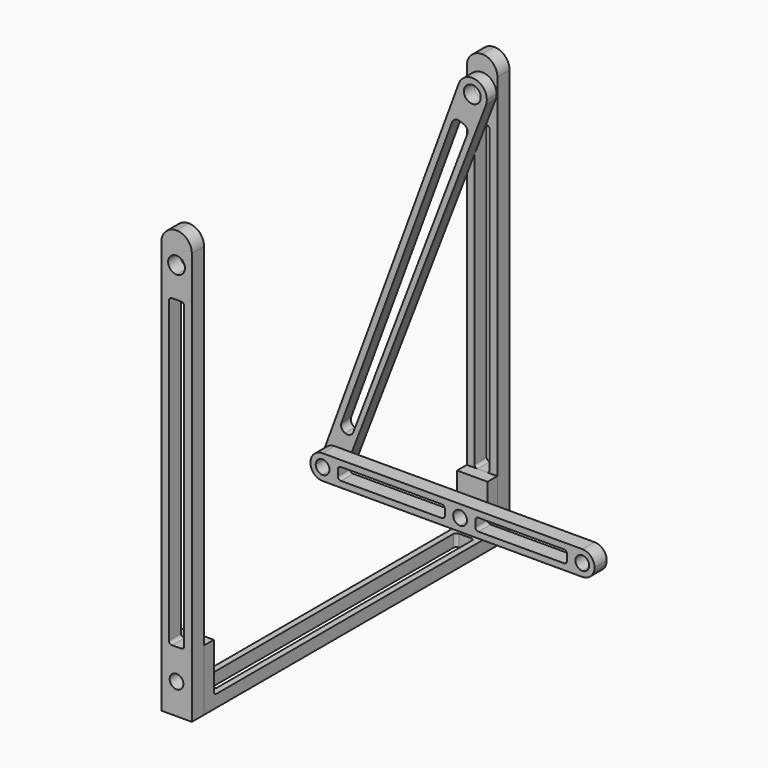
from build123d import *

# Parameters (mm, degrees)
F1_DEPTH  = 5
F6_DEPTH  = 10
F8_DEPTH  = 25
F9_R      = 2.25
F10_DEPTH = 130.001
F12_DEPTH = 5
F14_DEPTH = 25
F16_DEPTH = 5
F17_R     = 2.25
F17_R_2   = 2.75
F18_DEPTH = 4
F20_DEPTH = 25


with BuildPart() as f1:
    # F0 (on Front) → F1 (new body)
    with BuildSketch(Plane.XZ):
        with BuildLine():
            Line((7.5, 70), (10, 70))
            Line((10, 70), (10, 135))
            ThreePointArc((10, 135), (8.5355339059, 138.5355339059), (5, 140))
            Line((5, 140), (5, 132.75))
            ThreePointArc((5, 132.75), (6.9445436483, 131.9445436483), (7.75, 130))
            ThreePointArc((7.75, 130), (6.9445436483, 128.0554563517), (5, 127.25))
            Line((5, 127.25), (5, 120))
            Line((5, 120), (6.5, 120))
            ThreePointArc((6.5, 120), (7.2071067812, 119.7071067812), (7.5, 119))
            Line((7.5, 119), (7.5, 70))
        make_face()
        with BuildLine():
            Line((0, 135), (0, 70))
            Line((0, 70), (2.5, 70))
            Line((2.5, 70), (2.5, 119))
            ThreePointArc((2.5, 119), (2.7928932188, 119.7071067812), (3.5, 120))
            Line((3.5, 120), (5, 120))
            Line((5, 120), (5, 127.25))
            ThreePointArc((5, 127.25), (2.25, 130), (5, 132.75))
            Line((5, 132.75), (5, 140))
            ThreePointArc((5, 140), (1.4644660941, 138.5355339059), (0, 135))
        make_face()
        with BuildLine():
            Line((0, 70), (0, 0))
            Line((0, 0), (10, 0))
            Line((10, 0), (10, 70))
            Line((10, 70), (7.5, 70))
            Line((7.5, 70), (7.5, 21))
            ThreePointArc((7.5, 21), (7.2071067812, 20.2928932188), (6.5, 20))
            Line((6.5, 20), (5, 20))
            Line((5, 20), (3.5, 20))
            ThreePointArc((3.5, 20), (2.7928932188, 20.2928932188), (2.5, 21))
            Line((2.5, 21), (2.5, 70))
            Line((2.5, 70), (0, 70))
        make_face()
        with BuildLine():
            ThreePointArc((7.25, 10), (3.4090097423, 8.4090097423), (5, 12.25))
            ThreePointArc((5, 12.25), (6.5909902577, 11.5909902577), (7.25, 10))
        make_face(mode=Mode.SUBTRACT)
    extrude(amount=F1_DEPTH)


with BuildPart() as f4_1:
    # F4: instance of F1
    add(f1.part.mirror(Plane(origin=(0, 60, 0), x_dir=(-1, 0, 0), z_dir=(0, 1, 0))))


with BuildPart() as f6:
    # F5 (on Right) → F6 (new body)
    with BuildSketch(Plane.YZ):
        with BuildLine():
            Line((0, 20), (0, 0))
            Line((0, 0), (120, 0))
            Line((120, 0), (120, 20))
            Line((120, 20), (116, 20))
            Line((116, 20), (116, 15))
            Line((116, 15), (116, 5))
            ThreePointArc((116, 5), (115.7071067812, 4.2928932188), (115, 4))
            Line((115, 4), (5, 4))
            ThreePointArc((5, 4), (4.2928932188, 4.2928932188), (4, 5))
            Line((4, 5), (4, 15))
            Line((4, 15), (4, 20))
            Line((4, 20), (0, 20))
        make_face()
    extrude(amount=F6_DEPTH)

    # F7 (on face) → F8 (cut)
    with BuildSketch(Plane.XY.offset(4)):
        with BuildLine():
            ThreePointArc((3, 113), (2.2928932188, 112.7071067812), (2, 112))
            Line((2, 112), (2, 8))
            ThreePointArc((2, 8), (2.2928932188, 7.2928932188), (3, 7))
            Line((3, 7), (7, 7))
            ThreePointArc((7, 7), (7.7071067812, 7.2928932188), (8, 8))
            Line((8, 8), (8, 112))
            ThreePointArc((8, 112), (7.7071067812, 112.7071067812), (7, 113))
            Line((7, 113), (3, 113))
        make_face()
    extrude(amount=-F8_DEPTH, mode=Mode.SUBTRACT)

    # F9 (on face) → F10 (cut, through all)
    with BuildSketch(Plane.XZ.offset(5)):
        with Locations((5, 10)):
            Circle(F9_R)
    extrude(amount=-F10_DEPTH, mode=Mode.SUBTRACT)


with BuildPart() as f12:
    # F11 (on face) → F12 (new body)
    with BuildSketch(Plane.XZ.offset(-116)):
        with BuildLine():
            Line((5, 12.25), (5, 14))
            ThreePointArc((5, 14), (1, 10), (5, 6))
            Line((5, 6), (5, 7.75))
            ThreePointArc((5, 7.75), (2.75, 10), (5, 12.25))
        make_face()
        with BuildLine():
            ThreePointArc((5, 6), (7.8284271247, 7.1715728753), (9, 10))
            ThreePointArc((9, 10), (7.8284271247, 12.8284271247), (5, 14))
            Line((5, 14), (5, 12.25))
            ThreePointArc((5, 12.25), (6.5909902577, 11.5909902577), (7.25, 10))
            ThreePointArc((7.25, 10), (6.5909902577, 8.4090097423), (5, 7.75))
            Line((5, 7.75), (5, 6))
        make_face()
        with BuildLine():
            ThreePointArc((5, 6), (1, 10), (5, 14))
            Line((5, 14), (0, 14))
            Line((0, 14), (0, 6))
            Line((0, 6), (5, 6))
        make_face()
        with BuildLine():
            Line((0, 6), (0, 14))
            Line((0, 14), (-40, 14))
            ThreePointArc((-40, 14), (-37.1715728753, 12.8284271247), (-36, 10))
            ThreePointArc((-36, 10), (-37.1715728753, 7.1715728753), (-40, 6))
            Line((-40, 6), (0, 6))
        make_face()
        with BuildLine():
            Line((-40, 7.75), (-40, 6))
            ThreePointArc((-40, 6), (-37.1715728753, 7.1715728753), (-36, 10))
            Line((-36, 10), (-37.75, 10))
            ThreePointArc((-37.75, 10), (-38.4090097423, 8.4090097423), (-40, 7.75))
        make_face()
        with BuildLine():
            ThreePointArc((-44, 10), (-42.8284271247, 7.1715728753), (-40, 6))
            Line((-40, 6), (-40, 7.75))
            ThreePointArc((-40, 7.75), (-41.5909902577, 8.4090097423), (-42.25, 10))
            Line((-42.25, 10), (-44, 10))
        make_face()
        with BuildLine():
            ThreePointArc((-36, 10), (-37.1715728753, 12.8284271247), (-40, 14))
            ThreePointArc((-40, 14), (-42.8284271247, 12.8284271247), (-44, 10))
            Line((-44, 10), (-42.25, 10))
            ThreePointArc((-42.25, 10), (-40, 12.25), (-37.75, 10))
            Line((-37.75, 10), (-36, 10))
        make_face()
    extrude(amount=F12_DEPTH)

    # F13 (on face) → F14 (cut)
    with BuildSketch(Plane.XZ.offset(-111)):
        with BuildLine():
            Line((-35, 10), (0, 10))
            Line((0, 10), (0, 11))
            ThreePointArc((0, 11), (-0.2928932188, 11.7071067812), (-1, 12))
            Line((-1, 12), (-34, 12))
            ThreePointArc((-34, 12), (-34.7071067812, 11.7071067812), (-35, 11))
            Line((-35, 11), (-35, 10))
        make_face()
        with BuildLine():
            Line((0, 9), (0, 10))
            Line((0, 10), (-35, 10))
            Line((-35, 10), (-35, 9))
            ThreePointArc((-35, 9), (-34.7071067812, 8.2928932188), (-34, 8))
            Line((-34, 8), (-1, 8))
            ThreePointArc((-1, 8), (-0.2928932188, 8.2928932188), (0, 9))
        make_face()
    extrude(amount=-F14_DEPTH, mode=Mode.SUBTRACT)


with BuildPart() as f15_1:
    # F15: copy of F12
    add(f12.part)

    # F11 (on face) → F16 (join)
    with BuildSketch(Plane.XZ.offset(-116)):
        with BuildLine():
            Line((45, 14), (10, 14))
            Line((10, 14), (10, 11))
            ThreePointArc((10, 11), (10.2928932188, 11.7071067812), (11, 12))
            Line((11, 12), (39, 12))
            ThreePointArc((39, 12), (39.7071067812, 11.7071067812), (40, 11))
            Line((40, 11), (40, 9))
            ThreePointArc((40, 9), (39.7071067812, 8.2928932188), (39, 8))
            Line((39, 8), (11, 8))
            ThreePointArc((11, 8), (10.2928932188, 8.2928932188), (10, 9))
            Line((10, 9), (10, 6))
            Line((10, 6), (45, 6))
            ThreePointArc((45, 6), (41, 10), (45, 14))
        make_face()
        with BuildLine():
            ThreePointArc((5, 14), (7.8284271247, 12.8284271247), (9, 10))
            ThreePointArc((9, 10), (7.8284271247, 7.1715728753), (5, 6))
            Line((5, 6), (10, 6))
            Line((10, 6), (10, 9))
            Line((10, 9), (10, 11))
            Line((10, 11), (10, 14))
            Line((10, 14), (5, 14))
        make_face()
        with BuildLine():
            Line((45, 12.25), (45, 14))
            ThreePointArc((45, 14), (41, 10), (45, 6))
            Line((45, 6), (45, 7.75))
            ThreePointArc((45, 7.75), (42.75, 10), (45, 12.25))
        make_face()
        with BuildLine():
            ThreePointArc((49, 10), (47.8284271247, 12.8284271247), (45, 14))
            Line((45, 14), (45, 12.25))
            ThreePointArc((45, 12.25), (46.5909902577, 11.5909902577), (47.25, 10))
            ThreePointArc((47.25, 10), (46.5909902577, 8.4090097423), (45, 7.75))
            Line((45, 7.75), (45, 6))
            ThreePointArc((45, 6), (47.8284271247, 7.1715728753), (49, 10))
        make_face()
    extrude(amount=F16_DEPTH)


with BuildPart() as f18:
    # F17 (on face) → F18 (new body)
    with BuildSketch(Plane.XZ.offset(-116)):
        with BuildLine():
            ThreePointArc((-43.4767751946, 11.9778863077), (-42.0110264505, 13.4577120492), (-40, 14))
            Line((-40, 14), (-34.4637237396, 14))
            Line((-34.4637237396, 14), (9.4342027867, 128.2969598812))
            ThreePointArc((9.4342027867, 128.2969598812), (3.3284893263, 125.5538160106), (0.5420589951, 131.639896947))
            Line((0.5420589951, 131.639896947), (-43.4767751946, 11.9778863077))
        make_face()
        with BuildLine():
            ThreePointArc((-40, 6), (-37.1715728753, 7.1715728753), (-36, 10))
            ThreePointArc((-36, 10), (-37.1715728753, 12.8284271247), (-40, 14))
            ThreePointArc((-40, 14), (-42.0110264505, 13.4577120492), (-43.4767751946, 11.9778863077))
            ThreePointArc((-43.4767751946, 11.9778863077), (-43.4577120492, 7.9889735495), (-40, 6))
        make_face()
        with Locations((-40, 10)):
            Circle(F17_R, mode=Mode.SUBTRACT)
        with BuildLine():
            ThreePointArc((-40, 14), (-37.1715728753, 12.8284271247), (-36, 10))
            Line((-36, 10), (-34.4637237396, 14))
            Line((-34.4637237396, 14), (-40, 14))
        make_face()
        with BuildLine():
            ThreePointArc((0.5420589951, 131.639896947), (3.3284893263, 125.5538160106), (9.4342027867, 128.2969598812))
            ThreePointArc((9.4342027867, 128.2969598812), (9.6703834552, 129.1339639837), (9.75, 130))
            ThreePointArc((9.75, 130), (5.8328505949, 134.6764152817), (0.5420589951, 131.639896947))
        make_face()
        with Locations((5, 130)):
            Circle(F17_R_2, mode=Mode.SUBTRACT)
    extrude(amount=-F18_DEPTH)

    # F19 (on face) → F20 (cut)
    with BuildSketch(Plane.XZ.offset(-116)):
        with BuildLine():
            ThreePointArc((0.9337998582, 120.9826029376), (-0.6066160667, 120.9337412786), (-1.6549237783, 119.8039981108))
            Line((-1.6549237783, 119.8039981108), (-37.8342546416, 21.4531091246))
            ThreePointArc((-37.8342546416, 21.4531091246), (-37.7727310886, 19.9236122783), (-36.6477097751, 18.885598408))
            Line((-36.6477097751, 18.885598408), (-36.5027629585, 18.8322783121))
            ThreePointArc((-36.5027629585, 18.8322783121), (-34.9835599535, 18.8890800108), (-33.9431922815, 19.9976102587))
            Line((-33.9431922815, 19.9976102587), (3.3446211044, 117.9245488371))
            ThreePointArc((3.3446211044, 117.9245488371), (3.3004229346, 119.454644348), (2.1872291975, 120.505332434))
            Line((2.1872291975, 120.505332434), (0.9337998582, 120.9826029376))
        make_face()
    extrude(amount=-F20_DEPTH, mode=Mode.SUBTRACT)


solid = Compound([f1.part, f4_1.part, f6.part, f12.part, f15_1.part, f18.part])
